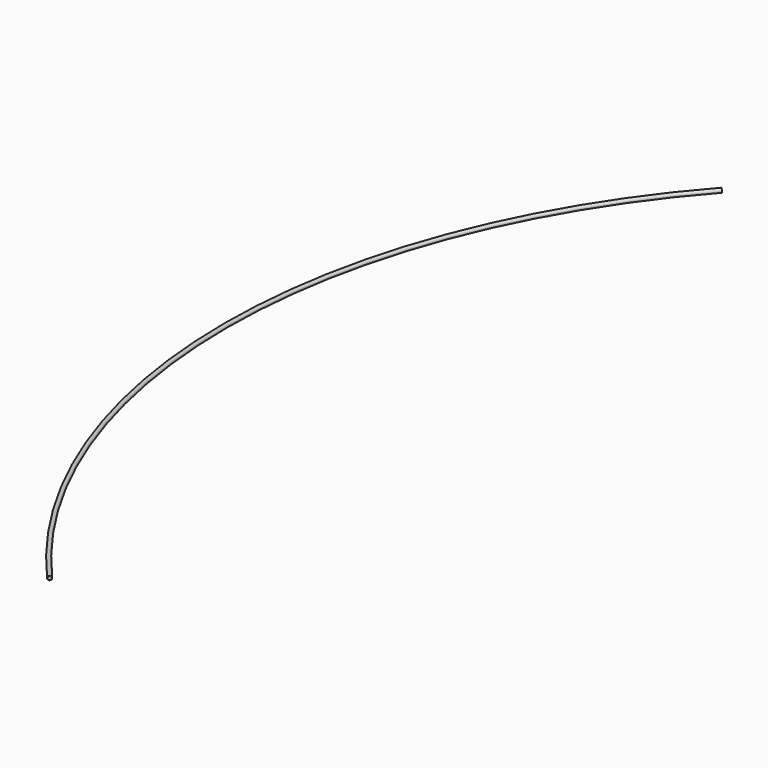
from build123d import *

# Parameters (mm, degrees)
F0_R          = 13.335
F0_R_2        = 11.227
F1_ANGLE_BACK = 41.595
F1_ANGLE      = 83.19


with BuildPart() as f1:
    # F0 (on Front) → F1 (revolve)
    with BuildSketch(Plane.XZ, mode=Mode.PRIVATE) as f1_sk:
        with Locations((-4215, 0)):
            Circle(F0_R)
        with Locations((-4215, 0)):
            Circle(F0_R_2, mode=Mode.SUBTRACT)
    revolve(f1_sk.sketch.rotate(Axis((0, 0, -12.5), (0, 0, -1)), -F1_ANGLE_BACK), axis=Axis((0, 0, -12.5), (0, 0, -1)), revolution_arc=F1_ANGLE)


solid = f1.part
